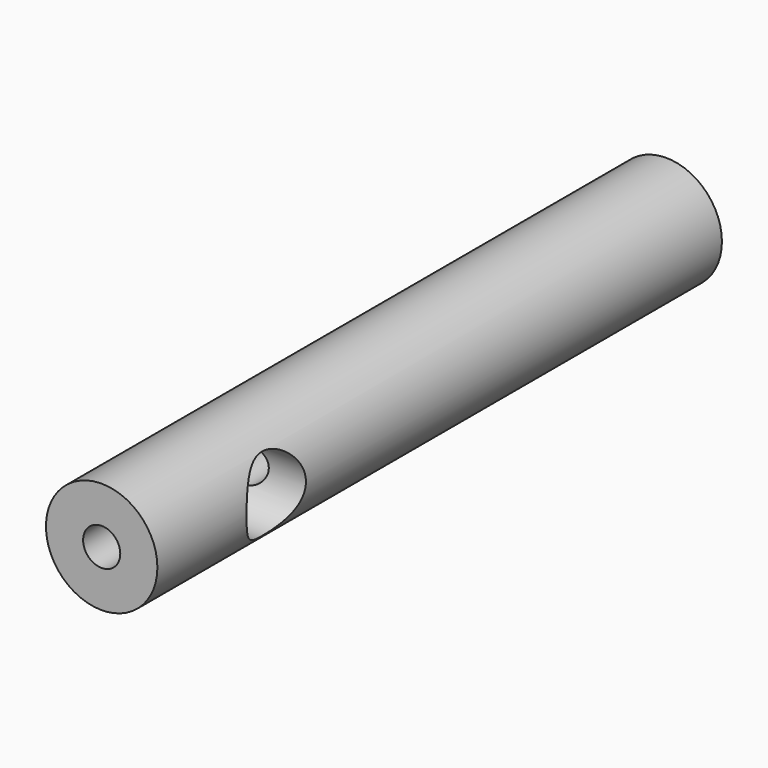
from build123d import *

# Parameters (mm, degrees)
F0_R     = 1.5
F0_R_2   = 0.5
F1_DEPTH = 19
F2_R     = 1
F3_DEPTH = 12.5


with BuildPart() as f1:
    # F0 (on Front) → F1 (new body)
    with BuildSketch(Plane.XZ):
        Circle(F0_R)
        Circle(F0_R_2, mode=Mode.SUBTRACT)
    extrude(amount=F1_DEPTH)

    # F2 (on Right) → F3 (cut, symmetric)
    with BuildSketch(Plane.YZ):
        with Locations((-15, 0)):
            Circle(F2_R)
    extrude(amount=F3_DEPTH, both=True, mode=Mode.SUBTRACT)


solid = f1.part
